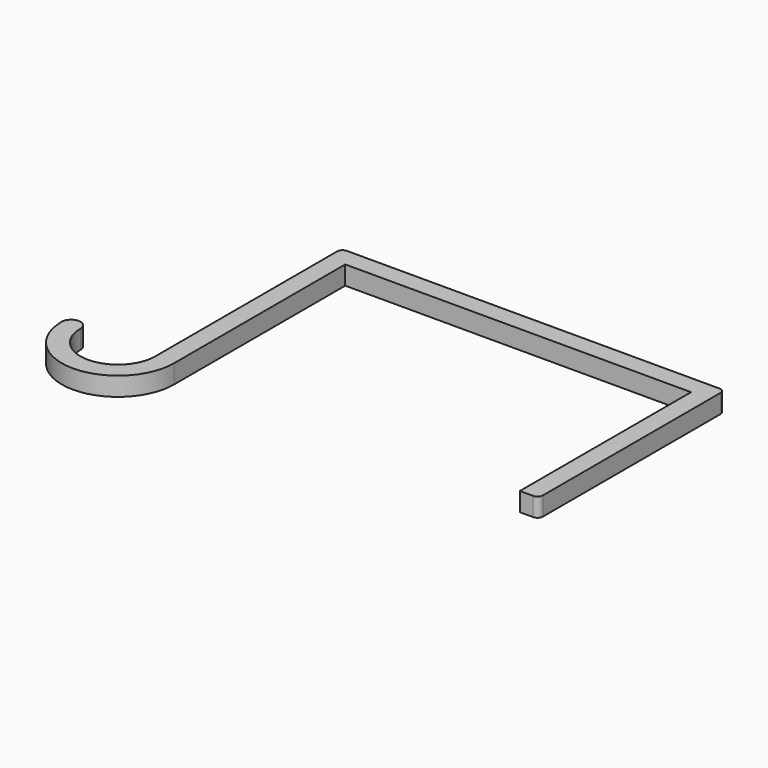
from build123d import *

# Parameters (mm, degrees)
F2_DEPTH = 7


with BuildPart() as f2:
    # F1 (on Top) → F2 (new body)
    with BuildSketch(Plane.XY):
        with BuildLine():
            ThreePointArc((14, 0), (0, -14), (-14, 0))
            ThreePointArc((-14, 0), (-17.5, 3.5), (-21, 0))
            ThreePointArc((-21, 0), (0, -21), (21, 0))
            Line((21, 0), (21, 80))
            Line((21, 80), (150.3, 80))
            Line((150.3, 80), (150.3, 0))
            Line((150.3, 0), (155.3, 0))
            ThreePointArc((155.3, 0), (156.7142135624, 0.5857864376), (157.3, 2))
            Line((157.3, 2), (157.3, 85))
            ThreePointArc((157.3, 85), (156.7142135624, 86.4142135624), (155.3, 87))
            Line((155.3, 87), (16, 87))
            ThreePointArc((16, 87), (14.5857864376, 86.4142135624), (14, 85))
            Line((14, 85), (14, 0))
        make_face()
    extrude(amount=F2_DEPTH)


solid = f2.part
